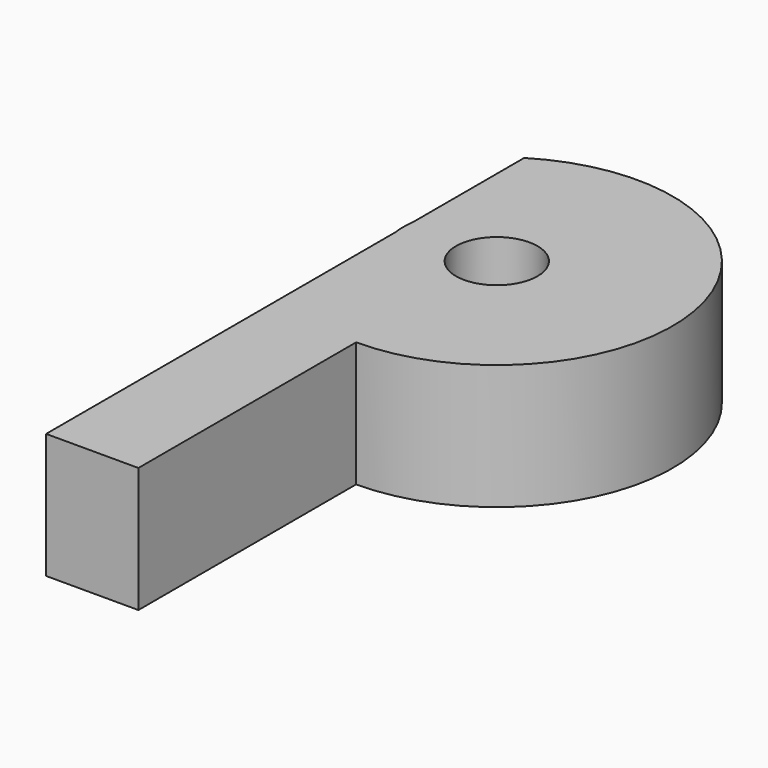
from build123d import *

# Parameters (mm, degrees)
F0_R     = 3.91145
F1_DEPTH = 12


with BuildPart() as f1:
    # F0 (on Top) → F1 (new body)
    with BuildSketch(Plane.XY):
        with BuildLine():
            Line((0, 2.632979), (0, 0))
            Line((0, 0), (0, -3.45591))
            ThreePointArc((0, -3.45591), (4.253486, -5.327909), (8.856385, -5.968109))
            ThreePointArc((8.856385, -5.968109), (25.08322, 15.501824), (0, 25.25376))
            Line((0, 25.25376), (0, 17.454625))
            ThreePointArc((0, 17.454625), (19.875131, 10.898925), (0, 4.343226))
            Line((0, 4.343226), (0, 2.632979))
        make_face()
        with BuildLine():
            ThreePointArc((8.856385, -5.968109), (4.253486, -5.327909), (0, -3.45591))
            Line((0, -3.45591), (0, -32.07447))
            Line((0, -32.07447), (8.856385, -32.07447))
            Line((8.856385, -32.07447), (8.856385, -5.968109))
        make_face()
        with BuildLine():
            Line((0, 9.749555), (0, 4.343226))
            ThreePointArc((0, 4.343226), (19.875131, 10.898925), (0, 17.454625))
            Line((0, 17.454625), (0, 12.048295))
            Line((0, 12.048295), (0, 9.749555))
        make_face()
        with Locations((8.856385, 10.898925)):
            Circle(F0_R, mode=Mode.SUBTRACT)
        with BuildLine():
            ThreePointArc((0, 12.048295), (-0.07427, 10.898925), (0, 9.749555))
            Line((0, 9.749555), (0, 12.048295))
        make_face()
    extrude(amount=F1_DEPTH)


solid = f1.part
